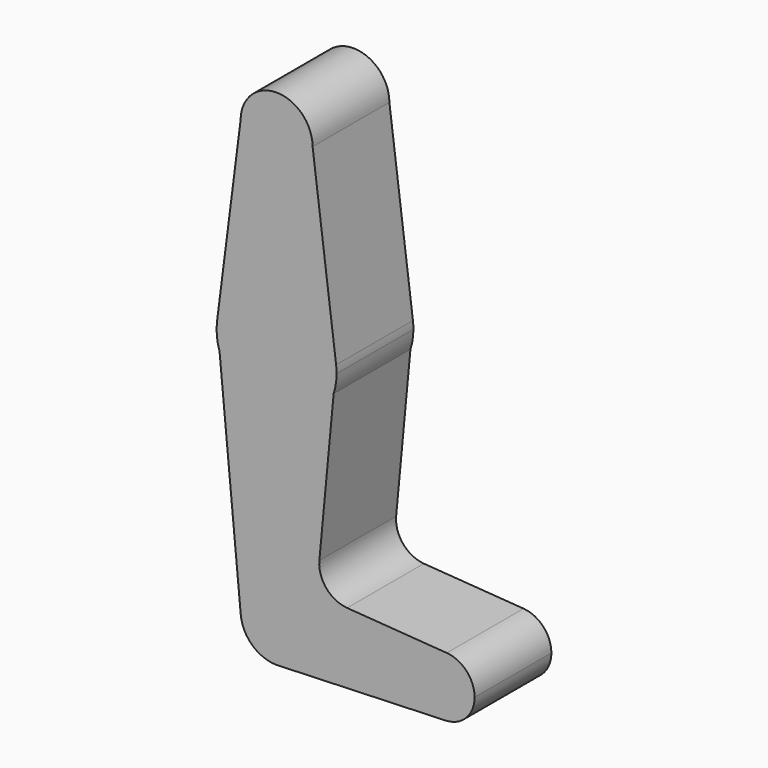
from build123d import *

# Parameters (mm, degrees)
F1_DEPTH = 25.4


with BuildPart() as f1:
    # F0 (on Front) → F1 (new body)
    with BuildSketch(Plane.XZ):
        with BuildLine():
            ThreePointArc((-15.7474569047, 65.5082893304), (-15.8048215471, 62.0089463914), (-15.0940259351, 58.5820729906))
            Line((-15.0940259351, 58.5820729906), (-15.7474569047, 65.5082893304))
        make_face()
        with BuildLine():
            Line((15.7474569047, 65.5082893304), (15.0940259351, 58.5820729906))
            ThreePointArc((15.0940259351, 58.5820729906), (15.6785408556, 61.0102245804), (15.875, 63.5))
            ThreePointArc((15.875, 63.5), (15.8430821396, 64.5061676396), (15.7474569047, 65.5082893304))
        make_face()
        with BuildLine():
            Line((0, 9.525), (0, 0))
            Line((0, 0), (9.525, 0))
            ThreePointArc((9.525, 0), (6.7351920908, 6.7351920908), (0, 9.525))
        make_face()
        with BuildLine():
            ThreePointArc((-9.525, 114.3), (-6.7351920908, 107.5648079092), (0, 104.775))
            ThreePointArc((0, 104.775), (6.7351920908, 107.5648079092), (9.525, 114.3))
            ThreePointArc((9.525, 114.3), (0, 123.825), (-9.525, 114.3))
        make_face()
        with BuildLine():
            ThreePointArc((45.0218639872, 7.9168729831), (39.0433034184, 5.8113284475), (36.5125, 0))
            ThreePointArc((36.5125, 0), (38.9380895153, -5.7116327839), (44.7324052746, -7.9324746146))
            ThreePointArc((44.7324052746, -7.9324746146), (50.1616327839, -5.5119104847), (52.3875, 0))
            ThreePointArc((52.3875, 0), (50.2613284475, 5.4066965816), (45.0218639872, 7.9168729831))
        make_face()
        with BuildLine():
            Line((9.525, 0), (0, 0))
            Line((0, 0), (0, 9.525))
            ThreePointArc((0, 9.525), (-7.0443948063, 6.4110940418), (-9.4828929283, -0.8946321652))
            ThreePointArc((-9.4828929283, -0.8946321652), (-6.4110940418, -7.0443948063), (0, -9.525))
            Line((0, -9.525), (0.6773435479, -9.500885786))
            ThreePointArc((0.6773435479, -9.500885786), (6.9705567315, -6.4912990883), (9.525, 0))
        make_face()
        with BuildLine():
            ThreePointArc((-15.0940259351, 58.5820729906), (-9.3258654753, 50.6530603591), (0, 47.625))
            Line((0, 47.625), (0, 79.375))
            ThreePointArc((0, 79.375), (-10.4912828548, 75.4142187767), (-15.7474569047, 65.5082893304))
            Line((-15.7474569047, 65.5082893304), (-15.0940259351, 58.5820729906))
        make_face()
        with BuildLine():
            ThreePointArc((-15.7474569047, 65.5082893304), (-10.4912828548, 75.4142187767), (0, 79.375))
            Line((0, 79.375), (0, 104.775))
            ThreePointArc((0, 104.775), (-6.7351920908, 107.5648079092), (-9.525, 114.3))
            Line((-9.525, 114.3), (-15.7474569047, 65.5082893304))
        make_face()
        with BuildLine():
            Line((36.5125, 0), (9.525, 0))
            ThreePointArc((9.525, 0), (6.9705567315, -6.4912990883), (0.6773435479, -9.500885786))
            Line((0.6773435479, -9.500885786), (44.7324052746, -7.9324746146))
            ThreePointArc((44.7324052746, -7.9324746146), (38.9380895153, -5.7116327839), (36.5125, 0))
        make_face()
        with BuildLine():
            Line((0, 79.375), (0, 47.625))
            ThreePointArc((0, 47.625), (9.3258654753, 50.6530603591), (15.0940259351, 58.5820729906))
            Line((15.0940259351, 58.5820729906), (15.7474569047, 65.5082893304))
            ThreePointArc((15.7474569047, 65.5082893304), (10.4912828548, 75.4142187767), (0, 79.375))
        make_face()
        with BuildLine():
            Line((0, 47.625), (0, 9.525))
            ThreePointArc((0, 9.525), (6.7351920908, 6.7351920908), (9.525, 0))
            Line((9.525, 0), (36.5125, 0))
            ThreePointArc((36.5125, 0), (39.0433034184, 5.8113284475), (45.0218639872, 7.9168729831))
            Line((45.0218639872, 7.9168729831), (18.6546767221, 9.8214690116))
            ThreePointArc((18.6546767221, 9.8214690116), (13.1586666786, 12.615302618), (11.3124010609, 18.4977286386))
            Line((11.3124010609, 18.4977286386), (15.0940259351, 58.5820729906))
            ThreePointArc((15.0940259351, 58.5820729906), (9.3258654753, 50.6530603591), (0, 47.625))
        make_face()
        with BuildLine():
            Line((0, 104.775), (0, 79.375))
            ThreePointArc((0, 79.375), (10.4912828548, 75.4142187767), (15.7474569047, 65.5082893304))
            Line((15.7474569047, 65.5082893304), (9.525, 114.3))
            ThreePointArc((9.525, 114.3), (6.7351920908, 107.5648079092), (0, 104.775))
        make_face()
        with BuildLine():
            ThreePointArc((-9.4828929283, -0.8946321652), (-7.0443948063, 6.4110940418), (0, 9.525))
            Line((0, 9.525), (0, 47.625))
            ThreePointArc((0, 47.625), (-9.3258654753, 50.6530603591), (-15.0940259351, 58.5820729906))
            Line((-15.0940259351, 58.5820729906), (-9.4828929283, -0.8946321652))
        make_face()
    extrude(amount=F1_DEPTH)


solid = f1.part
